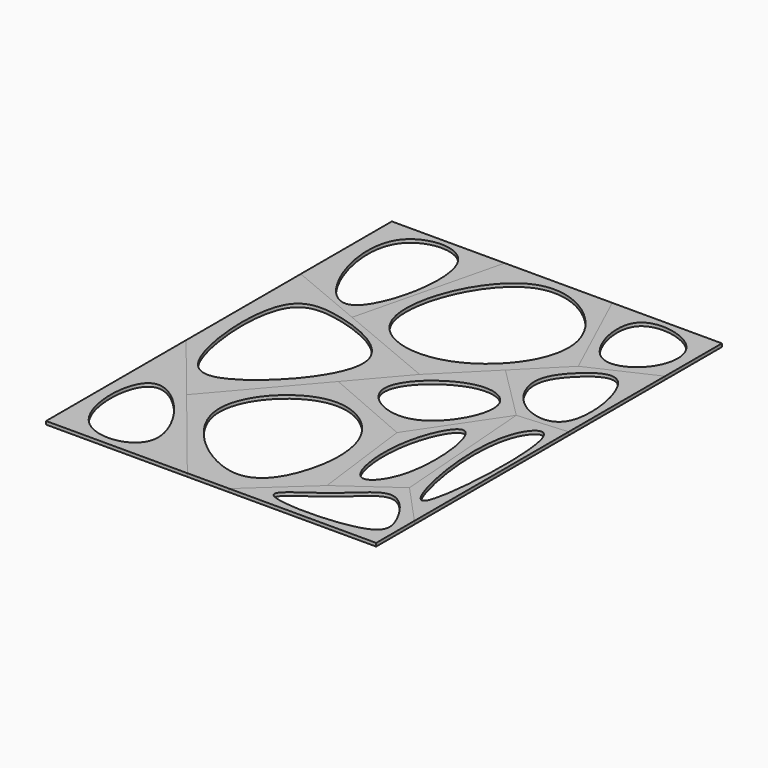
from build123d import *

# Parameters (mm, degrees)
F1_DEPTH  = 3
F2_DEPTH  = 3
F3_DEPTH  = 3
F4_DEPTH  = 3
F5_DEPTH  = 3
F6_DEPTH  = 3
F7_DEPTH  = 3
F8_DEPTH  = 3
F9_DEPTH  = 3
F10_DEPTH = 3
F11_DEPTH = 3


with BuildPart() as f1:
    # F0 (on Top) → F1 (new body)
    with BuildSketch(Plane.XY):
        Polygon((0, 294.6712374687), (0, 161.9715094566), (53.5920605919, 95.5725400479), (126.3000116157, 180.1852036905), (165.2879714966, 225.5567908287), (71.3131855545, 264.8519389855), align=None)
        with BuildLine():
            add(Edge.make_bspline(
                [(51.6697429121, 130.1147937775), (35.5874858701, 126.4887521528), (13.6845662793, 156.482586697), (8.7747800625, 263.7797428633), (64.1909416028, 264.4334878406), (161.4062847284, 222.5302263314), (77.9334495117, 136.0364310886), (51.6697429121, 130.1147937775)],
                knots=[0, 0, 0, 0, 0.1540126903, 0.3860156236, 0.5420831112, 0.7484840529, 1, 1, 1, 1], degree=3))
        make_face(mode=Mode.SUBTRACT)
    extrude(amount=F1_DEPTH)


with BuildPart() as f2:
    # F0 (on Top) → F2 (new body)
    with BuildSketch(Plane.XY):
        Polygon((0, 400), (0, 294.6712374687), (71.3131855545, 264.8519389855), (104.4672727585, 400), align=None)
        with BuildLine():
            add(Edge.make_bspline(
                [(61.6229747966, 281.517821814), (51.0574019698, 273.5363821456), (21.0001691232, 298.5153264084), (1.2905825831, 394.9802827365), (102.2985472619, 402.3422617188), (79.1328044503, 294.745088454), (61.6229747966, 281.517821814)],
                knots=[0, 0, 0, 0, 0.187059062, 0.4672676464, 0.689995766, 1, 1, 1, 1], degree=3))
        make_face(mode=Mode.SUBTRACT)
    extrude(amount=F2_DEPTH)


with BuildPart() as f3:
    # F0 (on Top) → F3 (new body)
    with BuildSketch(Plane.XY):
        Polygon((104.4672727585, 400), (71.3131855545, 264.8519389855), (165.2879714966, 225.5567908287), (209.3873918056, 269.6562111378), (246.8430101871, 307.1118295193), (203.9920538664, 400), align=None)
        with BuildLine():
            add(Edge.make_bspline(
                [(95.7996090098, 281.4673822174), (84.2759491698, 315.377789107), (132.6757556073, 432.2866410388), (255.9764879696, 337.2494387492), (176.357388249, 234.5797769631), (105.1139480812, 254.058292379), (95.7996090098, 281.4673822174)],
                knots=[0, 0, 0, 0, 0.277247433, 0.5243211775, 0.775906558, 1, 1, 1, 1], degree=3))
        make_face(mode=Mode.SUBTRACT)
    extrude(amount=F3_DEPTH)


with BuildPart() as f4:
    # F0 (on Top) → F4 (new body)
    with BuildSketch(Plane.XY):
        Polygon((0, 161.9715094566), (0, 0), (130.7307481766, 0), (53.5920605919, 95.5725400479), align=None)
        with BuildLine():
            add(Edge.make_bspline(
                [(25.2619834304, 94.7428092373), (45.1442458177, 99.4903791564), (115.2678656409, 11.5293570833), (3.6753059621, -4.6604045747), (6.6830172149, 90.3064458389), (25.2619834304, 94.7428092373)],
                knots=[0, 0, 0, 0, 0.3677353756, 0.6563699348, 1, 1, 1, 1], degree=3))
        make_face(mode=Mode.SUBTRACT)
    extrude(amount=F4_DEPTH)


with BuildPart() as f5:
    # F0 (on Top) → F5 (new body)
    with BuildSketch(Plane.XY):
        Polygon((53.5920605919, 95.5725400479), (130.7307481766, 0), (169.4348454475, 0), (221.6382175684, 47.9139648378), (209.3873918056, 144.2461217855), (126.3000116157, 180.1852036905), align=None)
        with BuildLine():
            add(Edge.make_bspline(
                [(159.5105826855, 21.4742925018), (132.951097494, 21.5990476702), (51.3897764528, 85.3473143579), (133.4976506264, 172.7814008042), (202.3719621737, 131.3617263532), (201.7554007889, 58.1433028365), (178.5577823084, 21.3848240283), (159.5105826855, 21.4742925018)],
                knots=[0, 0, 0, 0, 0.2357211518, 0.450104944, 0.6348302447, 0.8309520007, 1, 1, 1, 1], degree=3))
        make_face(mode=Mode.SUBTRACT)
    extrude(amount=F5_DEPTH)


with BuildPart() as f6:
    # F0 (on Top) → F6 (new body)
    with BuildSketch(Plane.XY):
        Polygon((165.2879714966, 225.5567908287), (126.3000116157, 180.1852036905), (209.3873918056, 144.2461217855), (259.8240498698, 219.2195530736), (209.3873918056, 269.6562111378), align=None)
        with BuildLine():
            add(Edge.make_bspline(
                [(159.0153574944, 191.242903471), (157.3661450922, 210.168396932), (205.3294198163, 250.5990459857), (255.936510859, 225.9692254996), (210.3886326245, 146.8198035125), (160.4425655974, 174.8650144943), (159.0153574944, 191.242903471)],
                knots=[0, 0, 0, 0, 0.2787675215, 0.483997249, 0.7587580198, 1, 1, 1, 1], degree=3))
        make_face(mode=Mode.SUBTRACT)
    extrude(amount=F6_DEPTH)


with BuildPart() as f7:
    # F0 (on Top) → F7 (new body)
    with BuildSketch(Plane.XY):
        Polygon((209.3873918056, 144.2461217855), (221.6382175684, 47.9139648378), (270.3236866424, 82.5377267131), (259.8240498698, 219.2195530736), align=None)
        with BuildLine():
            add(Edge.make_bspline(
                [(233.4441691637, 73.2632651925), (223.8681451639, 77.1612617015), (214.2842052546, 132.7357552801), (251.534621698, 208.1937805486), (264.9902525089, 98.936531553), (240.6620572979, 70.3251665881), (233.4441691637, 73.2632651925)],
                knots=[0, 0, 0, 0, 0.2653157983, 0.5028024109, 0.8000193241, 1, 1, 1, 1], degree=3))
        make_face(mode=Mode.SUBTRACT)
    extrude(amount=F7_DEPTH)


with BuildPart() as f8:
    # F0 (on Top) → F8 (new body)
    with BuildSketch(Plane.XY):
        Polygon((221.6382175684, 47.9139648378), (169.4348454475, 0), (305.508351326, 0), (305.508351326, 44.2032213212), (270.3236866424, 82.5377267131), align=None)
        with BuildLine():
            add(Edge.make_bspline(
                [(200.8708715439, 12.1590094641), (195.8491811406, 17.8421984771), (235.489629836, 38.2043577532), (266.9599571662, 80.7727062979), (297.8753354095, 36.6680313005), (300.513644725, 4.6187954166), (208.382877661, 3.6574597465), (200.8708715439, 12.1590094641)],
                knots=[0, 0, 0, 0, 0.1875092268, 0.3908700766, 0.578449926, 0.719502728, 1, 1, 1, 1], degree=3))
        make_face(mode=Mode.SUBTRACT)
    extrude(amount=F8_DEPTH)


with BuildPart() as f9:
    # F0 (on Top) → F9 (new body)
    with BuildSketch(Plane.XY):
        Polygon((259.8240498698, 219.2195530736), (305.508351326, 222.7289338324), (305.508351326, 334.175189231), (246.8430101871, 307.1118295193), (209.3873918056, 269.6562111378), align=None)
        with BuildLine():
            add(Edge.make_bspline(
                [(237.0974570513, 268.2571709156), (236.9482878735, 279.4608509393), (249.6001638259, 298.1561557938), (290.8620079609, 327.3299981185), (310.3778412781, 220.0113141522), (253.2139601552, 227.8249960774), (237.2628789198, 255.8327967166), (237.0974570513, 268.2571709156)],
                knots=[0, 0, 0, 0, 0.1787752092, 0.3514778882, 0.6172770738, 0.8017463823, 1, 1, 1, 1], degree=3))
        make_face(mode=Mode.SUBTRACT)
    extrude(amount=F9_DEPTH)


with BuildPart() as f10:
    # F0 (on Top) → F10 (new body)
    with BuildSketch(Plane.XY):
        Polygon((270.3236866424, 82.5377267131), (305.508351326, 44.2032213212), (305.508351326, 222.7289338324), (259.8240498698, 219.2195530736), align=None)
        with BuildLine():
            add(Edge.make_bspline(
                [(280.7012200356, 89.2740339041), (272.0615194095, 117.4977478634), (263.4964717343, 190.3010345866), (308.943947776, 234.1841205919), (299.6153590071, 47.6986369732), (284.3693725332, 77.2911086462), (280.7012200356, 89.2740339041)],
                knots=[0, 0, 0, 0, 0.331753636, 0.4849445381, 0.8591475583, 1, 1, 1, 1], degree=3))
        make_face(mode=Mode.SUBTRACT)
    extrude(amount=F10_DEPTH)


with BuildPart() as f11:
    # F0 (on Top) → F11 (new body)
    with BuildSketch(Plane.XY):
        Polygon((305.508351326, 400), (203.9920538664, 400), (246.8430101871, 307.1118295193), (305.508351326, 334.175189231), align=None)
        with BuildLine():
            add(Edge.make_bspline(
                [(251.2539029121, 328.5363018513), (235.8589268987, 338.487475366), (217.2988037865, 404.3025143087), (299.1012427695, 389.8764731632), (296.6305199839, 336.6646457383), (263.7523976481, 320.4573876859), (251.2539029121, 328.5363018513)],
                knots=[0, 0, 0, 0, 0.2811454541, 0.5384034096, 0.7717505389, 1, 1, 1, 1], degree=3))
        make_face(mode=Mode.SUBTRACT)
    extrude(amount=F11_DEPTH)


solid = Compound([f1.part, f2.part, f3.part, f4.part, f5.part, f6.part, f7.part, f8.part, f9.part, f10.part, f11.part])
